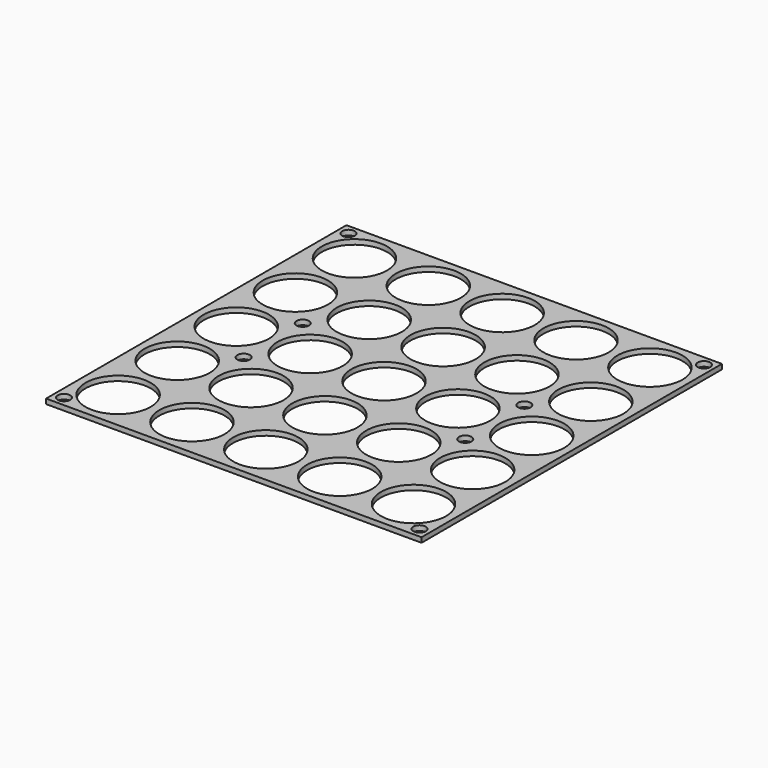
from build123d import *

# Parameters (mm, degrees)
F0_W     = 152.5
F0_H     = 152.5
F0_R     = 2.55
F0_R_2   = 13.25
F1_DEPTH = 2


with BuildPart() as f1:
    # F0 (on Top) → F1 (new body)
    with BuildSketch(Plane.XY):
        Rectangle(F0_W, F0_H)
        with Locations((-72.2, -72.2)):
            Circle(F0_R, mode=Mode.SUBTRACT)
        with Locations((-60, -60)):
            Circle(F0_R_2, mode=Mode.SUBTRACT)
        with Locations((-30, -60)):
            Circle(F0_R_2, mode=Mode.SUBTRACT)
        with Locations((-60, -30)):
            Circle(F0_R_2, mode=Mode.SUBTRACT)
        with Locations((-45, -15)):
            Circle(F0_R, mode=Mode.SUBTRACT)
        with Locations((-30, -30)):
            Circle(F0_R_2, mode=Mode.SUBTRACT)
        with Locations((0, -60)):
            Circle(F0_R_2, mode=Mode.SUBTRACT)
        with Locations((30, -60)):
            Circle(F0_R_2, mode=Mode.SUBTRACT)
        with Locations((72.2, -72.2)):
            Circle(F0_R, mode=Mode.SUBTRACT)
        with Locations((60, -60)):
            Circle(F0_R_2, mode=Mode.SUBTRACT)
        with Locations((0, -30)):
            Circle(F0_R_2, mode=Mode.SUBTRACT)
        with Locations((30, -30)):
            Circle(F0_R_2, mode=Mode.SUBTRACT)
        with Locations((60, -30)):
            Circle(F0_R_2, mode=Mode.SUBTRACT)
        with Locations((45, -15)):
            Circle(F0_R, mode=Mode.SUBTRACT)
        with Locations((-60, 0)):
            Circle(F0_R_2, mode=Mode.SUBTRACT)
        with Locations((-45, 15)):
            Circle(F0_R, mode=Mode.SUBTRACT)
        with Locations((-60, 30)):
            Circle(F0_R_2, mode=Mode.SUBTRACT)
        with Locations((-30, 0)):
            Circle(F0_R_2, mode=Mode.SUBTRACT)
        with Locations((-30, 30)):
            Circle(F0_R_2, mode=Mode.SUBTRACT)
        with Locations((-60, 60)):
            Circle(F0_R_2, mode=Mode.SUBTRACT)
        with Locations((-72.2, 72.2)):
            Circle(F0_R, mode=Mode.SUBTRACT)
        with Locations((-30, 60)):
            Circle(F0_R_2, mode=Mode.SUBTRACT)
        Circle(F0_R_2, mode=Mode.SUBTRACT)
        with Locations((30, 0)):
            Circle(F0_R_2, mode=Mode.SUBTRACT)
        with Locations((0, 30)):
            Circle(F0_R_2, mode=Mode.SUBTRACT)
        with Locations((30, 30)):
            Circle(F0_R_2, mode=Mode.SUBTRACT)
        with Locations((45, 15)):
            Circle(F0_R, mode=Mode.SUBTRACT)
        with Locations((60, 0)):
            Circle(F0_R_2, mode=Mode.SUBTRACT)
        with Locations((60, 30)):
            Circle(F0_R_2, mode=Mode.SUBTRACT)
        with Locations((0, 60)):
            Circle(F0_R_2, mode=Mode.SUBTRACT)
        with Locations((30, 60)):
            Circle(F0_R_2, mode=Mode.SUBTRACT)
        with Locations((60, 60)):
            Circle(F0_R_2, mode=Mode.SUBTRACT)
        with Locations((72.2, 72.2)):
            Circle(F0_R, mode=Mode.SUBTRACT)
    extrude(amount=F1_DEPTH)


solid = f1.part
